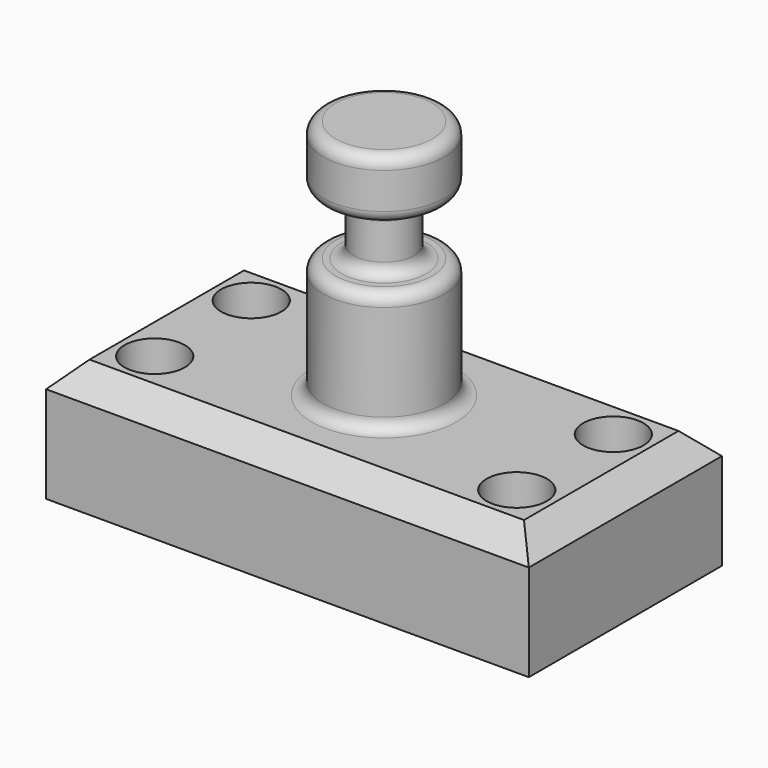
from build123d import *

# Parameters (mm, degrees)
F0_W     = 101.6
F0_H     = 50.8
F1_DEPTH = 25.4
F2_R     = 6.35
F3_DEPTH = 25.401
F4_W     = 12.7
F4_H     = 50.8
F6_W     = 12.7
F6_H     = 12.7
F8_R     = 2.54
F9_SIZE  = 5.08


with BuildPart() as f1:
    # F0 (on Top) → F1 (new body)
    with BuildSketch(Plane.XY):
        Rectangle(F0_W, F0_H)
    extrude(amount=F1_DEPTH)

    # F2 (on face) → F3 (cut, through all)
    with BuildSketch(Plane.XY.offset(25.4)):
        with Locations((-38.1, 12.7)):
            Circle(F2_R)
        with Locations((38.1, 12.7)):
            Circle(F2_R)
        with Locations((38.1, -12.7)):
            Circle(F2_R)
        with Locations((-38.1, -12.7)):
            Circle(F2_R)
    extrude(amount=-F3_DEPTH, mode=Mode.SUBTRACT)

    # F4 (on Front) → F5 (revolve)
    with BuildSketch(Plane.XZ):
        with Locations((-6.35, 50.8)):
            Rectangle(F4_W, F4_H)
        with Locations((-6.35, 50.8)):
            Rectangle(F4_W, F4_H)
    revolve(axis=Axis((0, 0, 50.8), (0, 0, 1)))

    # F6 (on Front) → F7 (revolve, cut)
    with BuildSketch(Plane.XZ):
        with Locations((-12.7, 57.15)):
            Rectangle(F6_W, F6_H)
    revolve(axis=Axis((0, 0, 44.482126832), (0, 0, 1)), mode=Mode.SUBTRACT)

    # F8
    f8_edges = [f1.edges().sort_by_distance(p)[0] for p in [
        (12.7, 0, 50.8),
        (6.35, 0, 50.8),
        (12.7, 0, 63.5),
        (6.35, 0, 63.5),
        (12.7, 0, 25.4),
        (12.7, 0, 76.2),
    ]]
    fillet(f8_edges, radius=F8_R)

    # F9
    f9_edges = [f1.edges().sort_by_distance(p)[0] for p in [
        (0, 25.4, 25.4),
        (50.8, 0, 25.4),
        (0, -25.4, 25.4),
        (-50.8, 0, 25.4),
    ]]
    chamfer(f9_edges, length=F9_SIZE)


solid = f1.part
